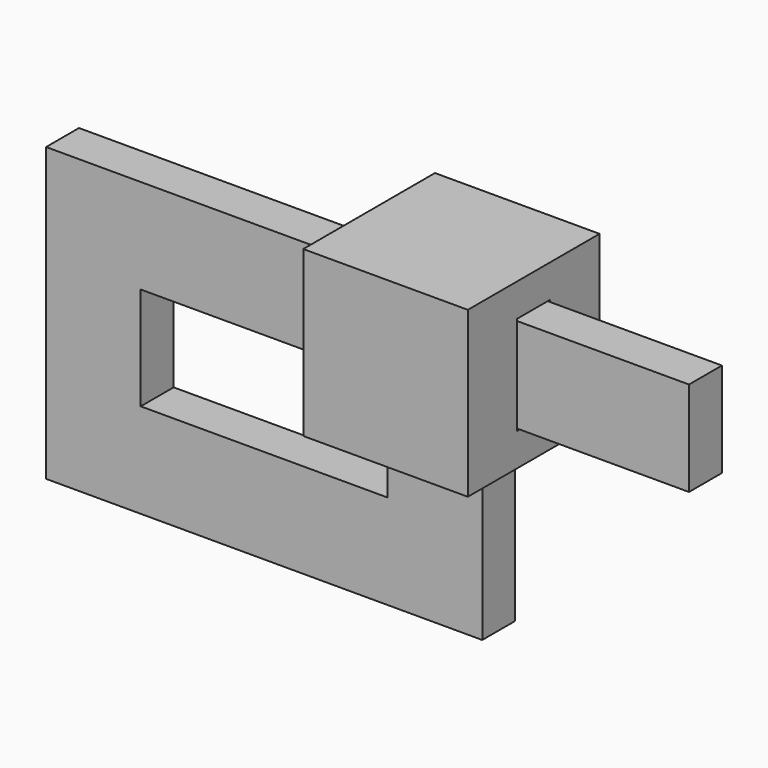
from build123d import *

# Parameters (mm, degrees)
F0_W     = 5.08
F0_H     = 5.08
F1_DEPTH = 2.54
F4_W     = 1.27
F4_H     = 3.048
F5_DEPTH = 5.08
F3_W     = 2.921
F3_H     = 1.27


with BuildPart() as f1:
    # F0 (on Right) → F1 (new body, symmetric)
    with BuildSketch(Plane.YZ):
        Rectangle(F0_W, F0_H)
    extrude(amount=F1_DEPTH, both=True)

    # F4 (on face) → F5 (cut, through all)
    with BuildSketch(Plane.YZ.offset(2.54)):
        Rectangle(F4_W, F4_H)
    extrude(amount=-F5_DEPTH, mode=Mode.SUBTRACT)

    # F6: sweep along a path in F2
    with BuildLine(Plane.XZ) as f6_path:
        Line((0, -2.54), (0, -6.096))
        Line((0, -6.096), (-10.541, -6.096))
        Line((-10.541, -6.096), (-10.541, 0))
        Line((-10.541, 0), (7.8415209427, 0))
    # F3 (on face) → F6 (sweep)
    with BuildSketch(Plane(origin=(0, 0, -2.54), x_dir=(1, 0, 0), z_dir=(0, 0, -1))):
        Rectangle(F3_W, F3_H)
    sweep(path=f6_path.line, transition=Transition.RIGHT)


solid = f1.part
